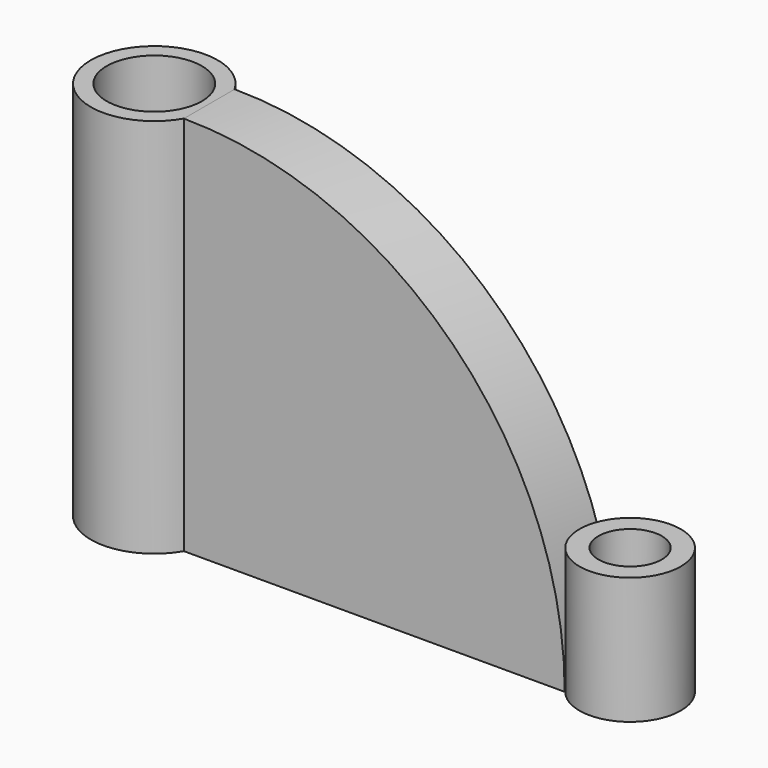
from build123d import *

# Parameters (mm, degrees)
F0_R     = 9.525
F1_DEPTH = 76.2
F3_DEPTH = 19.051
F4_R     = 10.1343674416
F4_R_2   = 6.35
F5_DEPTH = 25.4
F7_DEPTH = 3.175


with BuildPart() as f1:
    # F0 (on Top) → F1 (new body)
    with BuildSketch(Plane.XY):
        with BuildLine():
            Line((87.1985226281, 6.35), (10.9985226281, 6.35))
            ThreePointArc((10.9985226281, 6.35), (-12.7, 0), (10.9985226281, -6.35))
            Line((10.9985226281, -6.35), (87.1985226281, -6.35))
            Line((87.1985226281, -6.35), (87.1985226281, 6.35))
        make_face()
        Circle(F0_R, mode=Mode.SUBTRACT)
    extrude(amount=F1_DEPTH)

    # F2 (on face) → F3 (cut, through all)
    with BuildSketch(Plane.XZ.offset(6.35)):
        with BuildLine():
            ThreePointArc((10.9985226281, 76.2), (64.8800593545, 53.8815367264), (87.1985226281, 0))
            Line((87.1985226281, 0), (87.1985226281, 76.2))
            Line((87.1985226281, 76.2), (10.9985226281, 76.2))
        make_face()
    extrude(amount=-F3_DEPTH, mode=Mode.SUBTRACT)

    # F4 (on Top) → F5 (join)
    with BuildSketch(Plane.XY):
        with Locations((95.2044725418, 0)):
            Circle(F4_R)
        with Locations((95.2044725418, 0)):
            Circle(F4_R_2, mode=Mode.SUBTRACT)
    extrude(amount=F5_DEPTH)

    # F6 (on Front) → F7 (cut, symmetric)
    with BuildSketch(Plane.XZ):
        with BuildLine():
            Line((23.6985226281, 62.2170394667), (23.6985226281, 12.7))
            Line((23.6985226281, 12.7), (73.2155620948, 12.7))
            ThreePointArc((73.2155620948, 12.7), (55.8998032334, 44.9012806053), (23.6985226281, 62.2170394667))
        make_face()
    extrude(amount=F7_DEPTH, both=True, mode=Mode.SUBTRACT)


solid = f1.part
